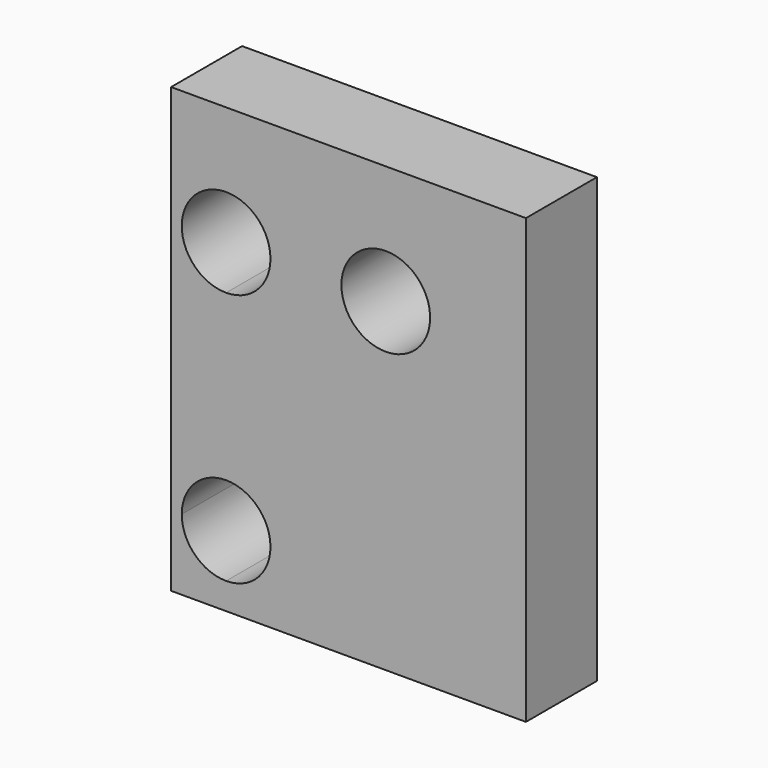
from build123d import *

# Parameters (mm, degrees)
F1_DEPTH = 25.4


with BuildPart() as f1:
    # F0 (on Front) → F1 (new body)
    with BuildSketch(Plane.XZ):
        with BuildLine():
            ThreePointArc((23.368, 29.464), (10.668, 42.164), (-2.032, 29.464))
            ThreePointArc((-2.032, 29.464), (10.668, 16.764), (23.368, 29.464))
        make_face()
        with BuildLine():
            Line((50.8, 63.5), (-50.8, 63.5))
            Line((-50.8, 63.5), (-50.8, -43.18))
            Line((-50.8, -43.18), (-47.752, -43.18))
            ThreePointArc((-47.752, -43.18), (-44.032256, -34.199744), (-35.052, -30.48))
            ThreePointArc((-35.052, -30.48), (-26.071744, -34.199744), (-22.352, -43.18))
            ThreePointArc((-22.352, -43.18), (-26.071744, -52.160256), (-35.052, -55.88))
            Line((-35.052, -55.88), (-35.052, -63.5))
            Line((-35.052, -63.5), (0, -63.5))
            Line((0, -63.5), (50.8, -63.5))
            Line((50.8, -63.5), (50.8, -12.7))
            Line((50.8, -12.7), (50.8, 63.5))
        make_face()
        with BuildLine():
            ThreePointArc((-22.352, 29.464), (-26.071744, 20.483744), (-35.052, 16.764))
            ThreePointArc((-35.052, 16.764), (-44.032256, 38.444256), (-22.352, 29.464))
        make_face(mode=Mode.SUBTRACT)
        with BuildLine():
            ThreePointArc((23.368, 29.464), (10.668, 16.764), (-2.032, 29.464))
            ThreePointArc((-2.032, 29.464), (10.668, 42.164), (23.368, 29.464))
        make_face(mode=Mode.SUBTRACT)
        with BuildLine():
            Line((-47.752, -43.18), (-50.8, -43.18))
            Line((-50.8, -43.18), (-50.8, -63.5))
            Line((-50.8, -63.5), (-35.052, -63.5))
            Line((-35.052, -63.5), (-35.052, -55.88))
            ThreePointArc((-35.052, -55.88), (-44.032256, -52.160256), (-47.752, -43.18))
        make_face()
    extrude(amount=F1_DEPTH)


solid = f1.part
